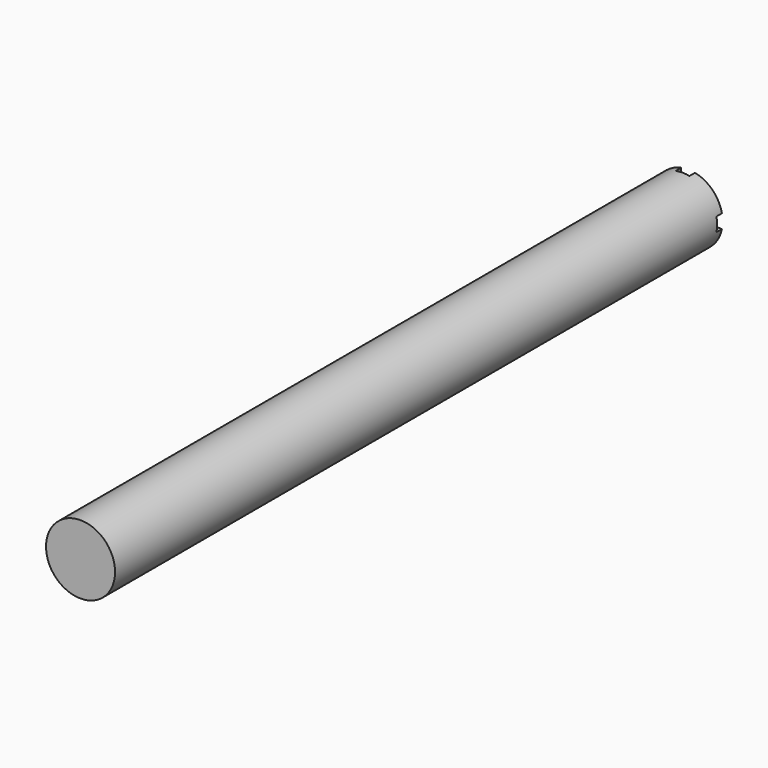
from build123d import *

# Parameters (mm, degrees)
F0_R     = 12.7
F1_DEPTH = 279.4
F2_R     = 6.35
F3_DEPTH = 25.4
F4_W     = 5.08
F4_H     = 38.1
F5_DEPTH = 2.54
F6_W     = 38.1
F6_H     = 5.08
F7_DEPTH = 2.54


with BuildPart() as f1:
    # F0 (on Front) → F1 (new body)
    with BuildSketch(Plane.XZ):
        Circle(F0_R)
    extrude(amount=-F1_DEPTH)

    # F2 (on face) → F3 (cut)
    with BuildSketch(Plane(origin=(0, 279.4, 0), x_dir=(-1, 0, 0), z_dir=(0, 1, 0))):
        Circle(F2_R)
    extrude(amount=-F3_DEPTH, mode=Mode.SUBTRACT)

    # F4 (on face) → F5 (cut)
    with BuildSketch(Plane(origin=(0, 279.4, 0), x_dir=(-1, 0, 0), z_dir=(0, 1, 0))):
        Rectangle(F4_W, F4_H)
    extrude(amount=-F5_DEPTH, mode=Mode.SUBTRACT)

    # F6 (on face) → F7 (cut)
    with BuildSketch(Plane(origin=(0, 279.4, 0), x_dir=(-1, 0, 0), z_dir=(0, 1, 0))):
        Rectangle(F6_W, F6_H)
    extrude(amount=-F7_DEPTH, mode=Mode.SUBTRACT)


solid = f1.part
